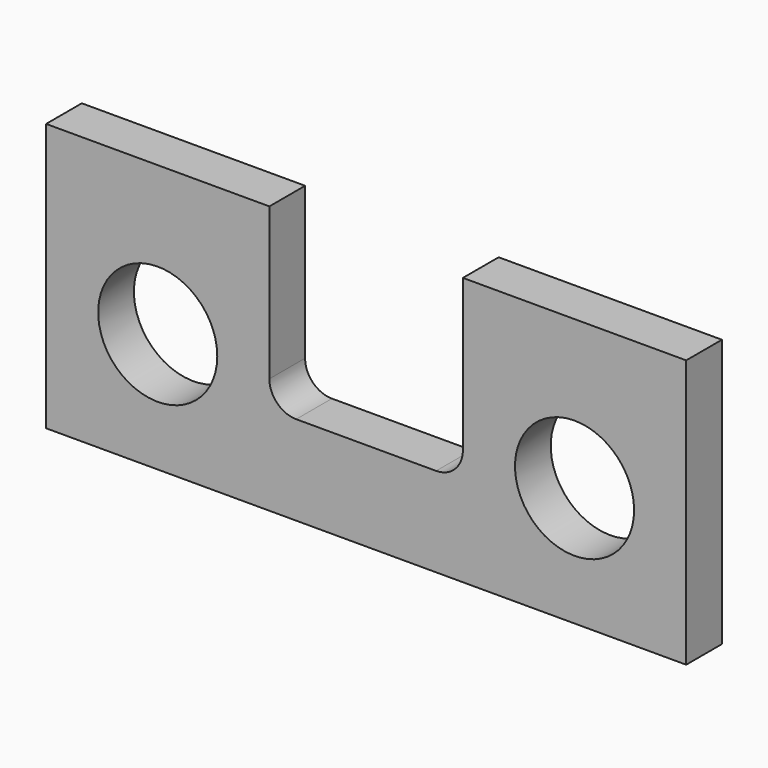
from build123d import *

# Parameters (mm, degrees)
F0_W     = 273.05
F0_H     = 114.3
F1_DEPTH = 19.05
F2_R     = 25.4
F3_DEPTH = 25.4
F5_DEPTH = 25.4


with BuildPart() as f1:
    # F0 (on Front) → F1 (new body)
    with BuildSketch(Plane.XZ):
        with Locations((136.525, 57.15)):
            Rectangle(F0_W, F0_H)
    extrude(amount=F1_DEPTH)

    # F2 (on face) → F3 (cut)
    with BuildSketch(Plane.XZ.offset(19.05)):
        with Locations((47.625, 50.8)):
            Circle(F2_R)
        with Locations((225.425, 50.8)):
            Circle(F2_R)
    extrude(amount=-F3_DEPTH, mode=Mode.SUBTRACT)

    # F4 (on face) → F5 (cut)
    with BuildSketch(Plane.XZ.offset(19.05)):
        with BuildLine():
            Line((177.8, 114.3), (95.25, 114.3))
            Line((95.25, 114.3), (95.25, 49.53))
            ThreePointArc((95.25, 49.53), (98.597769, 41.447769), (106.68, 38.1))
            Line((106.68, 38.1), (166.37, 38.1))
            ThreePointArc((166.37, 38.1), (174.452231, 41.447769), (177.8, 49.53))
            Line((177.8, 49.53), (177.8, 114.3))
        make_face()
    extrude(amount=-F5_DEPTH, mode=Mode.SUBTRACT)


solid = f1.part
